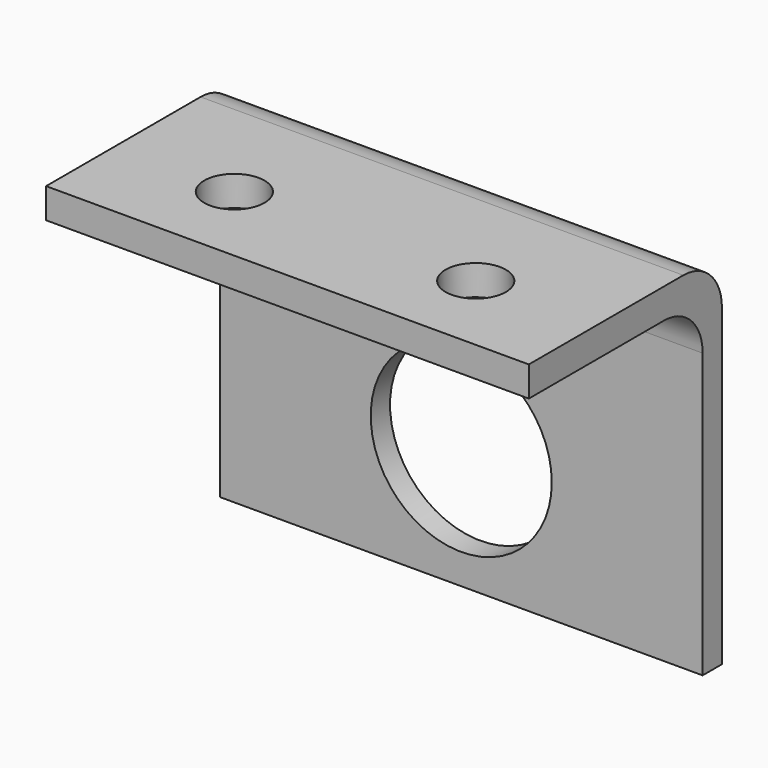
from build123d import *

# Parameters (mm, degrees)
F0_W     = 50.8
F0_H     = 34.935082
F0_R     = 9.525
F1_DEPTH = 2.54
F0_H_2   = 3.164918
F2_DEPTH = 25.4
F3_R     = 5.08
F4_R     = 3.175
F5_DEPTH = 25.4


with BuildPart() as f1:
    # F0 (on Front) → F1 (new body)
    with BuildSketch(Plane.XZ):
        with Locations((-7.487633, -19.108459)):
            Rectangle(F0_W, F0_H)
        with Locations((-7.487633, -23.876)):
            Circle(F0_R, mode=Mode.SUBTRACT)
    extrude(amount=F1_DEPTH)

    # F0 (on Front) → F2 (join)
    with BuildSketch(Plane.XZ):
        with Locations((-7.487633, -0.058459)):
            Rectangle(F0_W, F0_H_2)
    extrude(amount=F2_DEPTH)

    # F3
    f3_edges = [f1.edges().sort_by_distance(p)[0] for p in [
        (-7.487633, -2.54, -1.640918),
        (-7.487633, 0, 1.524),
    ]]
    fillet(f3_edges, radius=F3_R)

    # F4 (on face) → F5 (cut)
    with BuildSketch(Plane(origin=(0, 0, -1.640918), x_dir=(1, 0, 0), z_dir=(0, 0, -1))):
        with Locations((-20.187633, 16.51)):
            Circle(F4_R)
        with Locations((5.212367, 16.51)):
            Circle(F4_R)
    extrude(amount=-F5_DEPTH, mode=Mode.SUBTRACT)


solid = f1.part
